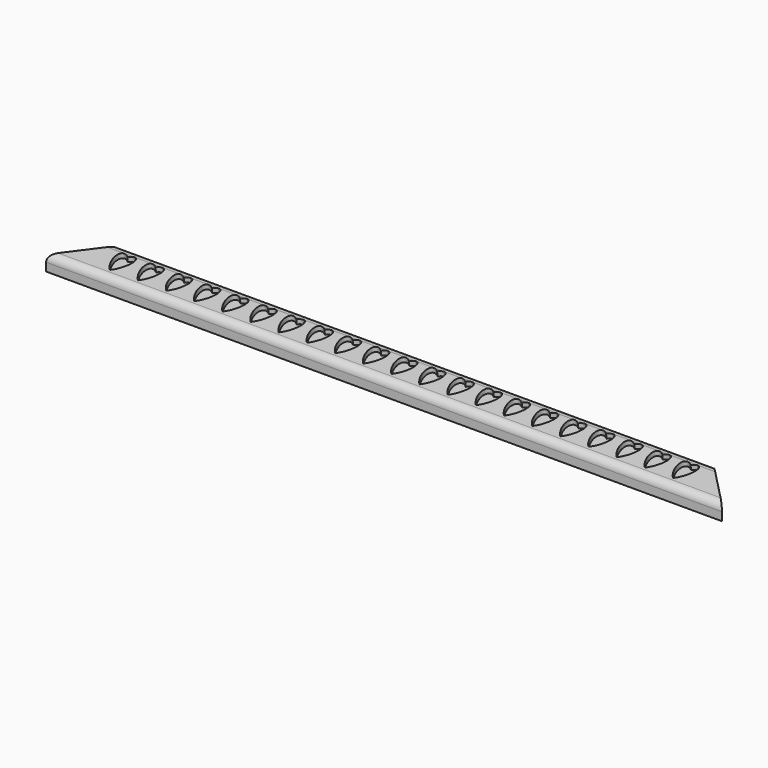
from build123d import *

# Parameters (mm, degrees)
F1_DEPTH = 12.7
F2_SIZE2 = 22.86
F2_SIZE  = 2.54
F3_R     = 5.08
F5_DEPTH = 3.175


with BuildPart() as f1:
    # F0 (on Top) → F1 (new body)
    with BuildSketch(Plane.XY):
        Polygon((203.2, 12.7), (-203.2, 12.7), (-228.6, -12.7), (228.6, -12.7), align=None)
    extrude(amount=F1_DEPTH)

    # F2
    f2_edges = [f1.edges().sort_by_distance(p)[0] for p in [
        (0, -12.7, 12.7),
    ]]
    f2_side = f1.faces().sort_by_distance((0, -12.7, 6.35))[0]
    chamfer(f2_edges, length=F2_SIZE, length2=F2_SIZE2, reference=f2_side)

    # F3
    f3_edges = [f1.edges().sort_by_distance(p)[0] for p in [
        (0, -12.7, 10.16),
    ]]
    fillet(f3_edges, radius=F3_R)

    # F4 (on face) → F5 (cut)
    with BuildSketch(Plane(origin=(0, -1.27, 11.43), x_dir=(1, 0, 0), z_dir=(0, -0.1104315261, 0.9938837347))):
        with BuildLine():
            Line((-186.7822812951, 11.5003391254), (-187.4004064973, 11.5003391254))
            add(Edge.make_bspline(
                [(-187.4004064973, 11.5003391254), (-188.8404220165, 11.3308106334), (-190.5316507007, 9.7902476797)],
                knots=[0.2738569719, 0.2738569719, 0.2738569719, 0.831266508, 0.831266508, 0.831266508], degree=2, weights=[1, 0.9614125767, 1]))
            add(Edge.make_bspline(
                [(-190.5316507007, 9.7902476797), (-196.4870133267, 15.1239986955), (-196.4553626259, 7.6071597103), (-196.4237119252, 0.0903207252), (-190.4683492993, -5.2434302906)],
                knots=[5.4519187991, 5.4519187991, 5.4519187991, 7.0227151259, 7.0227151259, 8.5935114527, 8.5935114527, 8.5935114527], degree=2, weights=[1, 0.7071067812, 1, 0.7071067812, 1]))
            add(Edge.make_bspline(
                [(-190.4683492993, -5.2434302906), (-173.9092680948, 9.8404594812), (-186.7822812951, 11.5003391254)],
                knots=[3.9728591616, 3.9728591616, 3.9728591616, 6.4288026863, 6.4288026863, 6.4288026863], degree=2, weights=[1, 0.3361486296, 1]))
        make_face()
        with BuildLine():
            Line((-167.7322812951, 11.5003391254), (-168.3504064973, 11.5003391254))
            add(Edge.make_bspline(
                [(-168.3504064973, 11.5003391254), (-169.7904220165, 11.3308106334), (-171.4816507007, 9.7902476797)],
                knots=[0.2738569719, 0.2738569719, 0.2738569719, 0.831266508, 0.831266508, 0.831266508], degree=2, weights=[1, 0.9614125767, 1]))
            add(Edge.make_bspline(
                [(-171.4816507007, 9.7902476797), (-177.4370133267, 15.1239986955), (-177.4053626259, 7.6071597103), (-177.3737119252, 0.0903207252), (-171.4183492993, -5.2434302906)],
                knots=[5.4519187991, 5.4519187991, 5.4519187991, 7.0227151259, 7.0227151259, 8.5935114527, 8.5935114527, 8.5935114527], degree=2, weights=[1, 0.7071067812, 1, 0.7071067812, 1]))
            add(Edge.make_bspline(
                [(-171.4183492993, -5.2434302906), (-154.8592680948, 9.8404594812), (-167.7322812951, 11.5003391254)],
                knots=[3.9728591616, 3.9728591616, 3.9728591616, 6.4288026863, 6.4288026863, 6.4288026863], degree=2, weights=[1, 0.3361486296, 1]))
        make_face()
        with BuildLine():
            Line((-148.6822812951, 11.5003391254), (-149.3004064973, 11.5003391254))
            add(Edge.make_bspline(
                [(-149.3004064973, 11.5003391254), (-150.7404220165, 11.3308106334), (-152.4316507007, 9.7902476797)],
                knots=[0.2738569719, 0.2738569719, 0.2738569719, 0.831266508, 0.831266508, 0.831266508], degree=2, weights=[1, 0.9614125767, 1]))
            add(Edge.make_bspline(
                [(-152.4316507007, 9.7902476797), (-158.3870133267, 15.1239986955), (-158.3553626259, 7.6071597103), (-158.3237119252, 0.0903207252), (-152.3683492993, -5.2434302906)],
                knots=[5.4519187991, 5.4519187991, 5.4519187991, 7.0227151259, 7.0227151259, 8.5935114527, 8.5935114527, 8.5935114527], degree=2, weights=[1, 0.7071067812, 1, 0.7071067812, 1]))
            add(Edge.make_bspline(
                [(-152.3683492993, -5.2434302906), (-135.8092680948, 9.8404594812), (-148.6822812951, 11.5003391254)],
                knots=[3.9728591616, 3.9728591616, 3.9728591616, 6.4288026863, 6.4288026863, 6.4288026863], degree=2, weights=[1, 0.3361486296, 1]))
        make_face()
        with BuildLine():
            Line((-129.6322812951, 11.5003391254), (-130.2504064973, 11.5003391254))
            add(Edge.make_bspline(
                [(-130.2504064973, 11.5003391254), (-131.6904220165, 11.3308106334), (-133.3816507007, 9.7902476797)],
                knots=[0.2738569719, 0.2738569719, 0.2738569719, 0.831266508, 0.831266508, 0.831266508], degree=2, weights=[1, 0.9614125767, 1]))
            add(Edge.make_bspline(
                [(-133.3816507007, 9.7902476797), (-139.3370133267, 15.1239986955), (-139.3053626259, 7.6071597103), (-139.2737119252, 0.0903207252), (-133.3183492993, -5.2434302906)],
                knots=[5.4519187991, 5.4519187991, 5.4519187991, 7.0227151259, 7.0227151259, 8.5935114527, 8.5935114527, 8.5935114527], degree=2, weights=[1, 0.7071067812, 1, 0.7071067812, 1]))
            add(Edge.make_bspline(
                [(-133.3183492993, -5.2434302906), (-116.7592680948, 9.8404594812), (-129.6322812951, 11.5003391254)],
                knots=[3.9728591616, 3.9728591616, 3.9728591616, 6.4288026863, 6.4288026863, 6.4288026863], degree=2, weights=[1, 0.3361486296, 1]))
        make_face()
        with BuildLine():
            add(Edge.make_bspline(
                [(-114.2683492993, -5.2434302906), (-97.7092680948, 9.8404594812), (-110.5822812951, 11.5003391254)],
                knots=[3.9728591616, 3.9728591616, 3.9728591616, 6.4288026863, 6.4288026863, 6.4288026863], degree=2, weights=[1, 0.3361486296, 1]))
            Line((-110.5822812951, 11.5003391254), (-111.2004064973, 11.5003391254))
            add(Edge.make_bspline(
                [(-111.2004064973, 11.5003391254), (-112.6404220165, 11.3308106334), (-114.3316507007, 9.7902476797)],
                knots=[0.2738569719, 0.2738569719, 0.2738569719, 0.831266508, 0.831266508, 0.831266508], degree=2, weights=[1, 0.9614125767, 1]))
            add(Edge.make_bspline(
                [(-114.3316507007, 9.7902476797), (-120.2870133267, 15.1239986955), (-120.2553626259, 7.6071597103), (-120.2237119252, 0.0903207252), (-114.2683492993, -5.2434302906)],
                knots=[5.4519187991, 5.4519187991, 5.4519187991, 7.0227151259, 7.0227151259, 8.5935114527, 8.5935114527, 8.5935114527], degree=2, weights=[1, 0.7071067812, 1, 0.7071067812, 1]))
        make_face()
        with BuildLine():
            add(Edge.make_bspline(
                [(-95.2183492993, -5.2434302906), (-78.6592680948, 9.8404594812), (-91.5322812951, 11.5003391254)],
                knots=[3.9728591616, 3.9728591616, 3.9728591616, 6.4288026863, 6.4288026863, 6.4288026863], degree=2, weights=[1, 0.3361486296, 1]))
            Line((-91.5322812951, 11.5003391254), (-92.1504064973, 11.5003391254))
            add(Edge.make_bspline(
                [(-92.1504064973, 11.5003391254), (-93.5904220165, 11.3308106334), (-95.2816507007, 9.7902476797)],
                knots=[0.2738569719, 0.2738569719, 0.2738569719, 0.831266508, 0.831266508, 0.831266508], degree=2, weights=[1, 0.9614125767, 1]))
            add(Edge.make_bspline(
                [(-95.2816507007, 9.7902476797), (-101.2370133267, 15.1239986955), (-101.2053626259, 7.6071597103), (-101.1737119252, 0.0903207252), (-95.2183492993, -5.2434302906)],
                knots=[5.4519187991, 5.4519187991, 5.4519187991, 7.0227151259, 7.0227151259, 8.5935114527, 8.5935114527, 8.5935114527], degree=2, weights=[1, 0.7071067812, 1, 0.7071067812, 1]))
        make_face()
        with BuildLine():
            add(Edge.make_bspline(
                [(-76.1683492993, -5.2434302906), (-59.6092680948, 9.8404594812), (-72.4822812951, 11.5003391254)],
                knots=[3.9728591616, 3.9728591616, 3.9728591616, 6.4288026863, 6.4288026863, 6.4288026863], degree=2, weights=[1, 0.3361486296, 1]))
            Line((-72.4822812951, 11.5003391254), (-73.1004064973, 11.5003391254))
            add(Edge.make_bspline(
                [(-73.1004064973, 11.5003391254), (-74.5404220165, 11.3308106334), (-76.2316507007, 9.7902476797)],
                knots=[0.2738569719, 0.2738569719, 0.2738569719, 0.831266508, 0.831266508, 0.831266508], degree=2, weights=[1, 0.9614125767, 1]))
            add(Edge.make_bspline(
                [(-76.2316507007, 9.7902476797), (-82.1870133267, 15.1239986955), (-82.1553626259, 7.6071597103), (-82.1237119252, 0.0903207252), (-76.1683492993, -5.2434302906)],
                knots=[5.4519187991, 5.4519187991, 5.4519187991, 7.0227151259, 7.0227151259, 8.5935114527, 8.5935114527, 8.5935114527], degree=2, weights=[1, 0.7071067812, 1, 0.7071067812, 1]))
        make_face()
        with BuildLine():
            add(Edge.make_bspline(
                [(-57.1183492993, -5.2434302906), (-40.5592680948, 9.8404594812), (-53.4322812951, 11.5003391254)],
                knots=[3.9728591616, 3.9728591616, 3.9728591616, 6.4288026863, 6.4288026863, 6.4288026863], degree=2, weights=[1, 0.3361486296, 1]))
            Line((-53.4322812951, 11.5003391254), (-54.0504064973, 11.5003391254))
            add(Edge.make_bspline(
                [(-54.0504064973, 11.5003391254), (-55.4904220165, 11.3308106334), (-57.1816507007, 9.7902476797)],
                knots=[0.2738569719, 0.2738569719, 0.2738569719, 0.831266508, 0.831266508, 0.831266508], degree=2, weights=[1, 0.9614125767, 1]))
            add(Edge.make_bspline(
                [(-57.1816507007, 9.7902476797), (-63.1370133267, 15.1239986955), (-63.1053626259, 7.6071597103), (-63.0737119252, 0.0903207252), (-57.1183492993, -5.2434302906)],
                knots=[5.4519187991, 5.4519187991, 5.4519187991, 7.0227151259, 7.0227151259, 8.5935114527, 8.5935114527, 8.5935114527], degree=2, weights=[1, 0.7071067812, 1, 0.7071067812, 1]))
        make_face()
        with BuildLine():
            add(Edge.make_bspline(
                [(-38.0683492993, -5.2434302906), (-21.5092680948, 9.8404594812), (-34.3822812951, 11.5003391254)],
                knots=[3.9728591616, 3.9728591616, 3.9728591616, 6.4288026863, 6.4288026863, 6.4288026863], degree=2, weights=[1, 0.3361486296, 1]))
            Line((-34.3822812951, 11.5003391254), (-35.0004064973, 11.5003391254))
            add(Edge.make_bspline(
                [(-35.0004064973, 11.5003391254), (-36.4404220165, 11.3308106334), (-38.1316507007, 9.7902476797)],
                knots=[0.2738569719, 0.2738569719, 0.2738569719, 0.831266508, 0.831266508, 0.831266508], degree=2, weights=[1, 0.9614125767, 1]))
            add(Edge.make_bspline(
                [(-38.1316507007, 9.7902476797), (-44.0870133267, 15.1239986955), (-44.0553626259, 7.6071597103), (-44.0237119252, 0.0903207252), (-38.0683492993, -5.2434302906)],
                knots=[5.4519187991, 5.4519187991, 5.4519187991, 7.0227151259, 7.0227151259, 8.5935114527, 8.5935114527, 8.5935114527], degree=2, weights=[1, 0.7071067812, 1, 0.7071067812, 1]))
        make_face()
        with BuildLine():
            Line((22.7677187049, 11.5003391254), (22.1495935027, 11.5003391254))
            add(Edge.make_bspline(
                [(22.1495935027, 11.5003391254), (20.7095779835, 11.3308106334), (19.0183492993, 9.7902476797)],
                knots=[0.2738569719, 0.2738569719, 0.2738569719, 0.831266508, 0.831266508, 0.831266508], degree=2, weights=[1, 0.9614125767, 1]))
            add(Edge.make_bspline(
                [(19.0183492993, 9.7902476797), (13.0629866733, 15.1239986955), (13.0946373741, 7.6071597103), (13.1262880748, 0.0903207252), (19.0816507007, -5.2434302906)],
                knots=[5.4519187991, 5.4519187991, 5.4519187991, 7.0227151259, 7.0227151259, 8.5935114527, 8.5935114527, 8.5935114527], degree=2, weights=[1, 0.7071067812, 1, 0.7071067812, 1]))
            add(Edge.make_bspline(
                [(19.0816507007, -5.2434302906), (35.6407319052, 9.8404594812), (22.7677187049, 11.5003391254)],
                knots=[3.9728591616, 3.9728591616, 3.9728591616, 6.4288026863, 6.4288026863, 6.4288026863], degree=2, weights=[1, 0.3361486296, 1]))
        make_face()
        with BuildLine():
            Line((41.8177187049, 11.5003391254), (41.1995935027, 11.5003391254))
            add(Edge.make_bspline(
                [(41.1995935027, 11.5003391254), (39.7595779835, 11.3308106334), (38.0683492993, 9.7902476797)],
                knots=[0.2738569719, 0.2738569719, 0.2738569719, 0.831266508, 0.831266508, 0.831266508], degree=2, weights=[1, 0.9614125767, 1]))
            add(Edge.make_bspline(
                [(38.0683492993, 9.7902476797), (32.1129866733, 15.1239986955), (32.1446373741, 7.6071597103), (32.1762880748, 0.0903207252), (38.1316507007, -5.2434302906)],
                knots=[5.4519187991, 5.4519187991, 5.4519187991, 7.0227151259, 7.0227151259, 8.5935114527, 8.5935114527, 8.5935114527], degree=2, weights=[1, 0.7071067812, 1, 0.7071067812, 1]))
            add(Edge.make_bspline(
                [(38.1316507007, -5.2434302906), (54.6907319052, 9.8404594812), (41.8177187049, 11.5003391254)],
                knots=[3.9728591616, 3.9728591616, 3.9728591616, 6.4288026863, 6.4288026863, 6.4288026863], degree=2, weights=[1, 0.3361486296, 1]))
        make_face()
        with BuildLine():
            Line((60.8677187049, 11.5003391254), (60.2495935027, 11.5003391254))
            add(Edge.make_bspline(
                [(60.2495935027, 11.5003391254), (58.8095779835, 11.3308106334), (57.1183492993, 9.7902476797)],
                knots=[0.2738569719, 0.2738569719, 0.2738569719, 0.831266508, 0.831266508, 0.831266508], degree=2, weights=[1, 0.9614125767, 1]))
            add(Edge.make_bspline(
                [(57.1183492993, 9.7902476797), (51.1629866733, 15.1239986955), (51.1946373741, 7.6071597103), (51.2262880748, 0.0903207252), (57.1816507007, -5.2434302906)],
                knots=[5.4519187991, 5.4519187991, 5.4519187991, 7.0227151259, 7.0227151259, 8.5935114527, 8.5935114527, 8.5935114527], degree=2, weights=[1, 0.7071067812, 1, 0.7071067812, 1]))
            add(Edge.make_bspline(
                [(57.1816507007, -5.2434302906), (73.7407319052, 9.8404594812), (60.8677187049, 11.5003391254)],
                knots=[3.9728591616, 3.9728591616, 3.9728591616, 6.4288026863, 6.4288026863, 6.4288026863], degree=2, weights=[1, 0.3361486296, 1]))
        make_face()
        with BuildLine():
            Line((79.9177187049, 11.5003391254), (79.2995935027, 11.5003391254))
            add(Edge.make_bspline(
                [(79.2995935027, 11.5003391254), (77.8595779835, 11.3308106334), (76.1683492993, 9.7902476797)],
                knots=[0.2738569719, 0.2738569719, 0.2738569719, 0.831266508, 0.831266508, 0.831266508], degree=2, weights=[1, 0.9614125767, 1]))
            add(Edge.make_bspline(
                [(76.1683492993, 9.7902476797), (70.2129866733, 15.1239986955), (70.2446373741, 7.6071597103), (70.2762880748, 0.0903207252), (76.2316507007, -5.2434302906)],
                knots=[5.4519187991, 5.4519187991, 5.4519187991, 7.0227151259, 7.0227151259, 8.5935114527, 8.5935114527, 8.5935114527], degree=2, weights=[1, 0.7071067812, 1, 0.7071067812, 1]))
            add(Edge.make_bspline(
                [(76.2316507007, -5.2434302906), (92.7907319052, 9.8404594812), (79.9177187049, 11.5003391254)],
                knots=[3.9728591616, 3.9728591616, 3.9728591616, 6.4288026863, 6.4288026863, 6.4288026863], degree=2, weights=[1, 0.3361486296, 1]))
        make_face()
        with BuildLine():
            Line((98.9677187049, 11.5003391254), (98.3495935027, 11.5003391254))
            add(Edge.make_bspline(
                [(98.3495935027, 11.5003391254), (96.9095779835, 11.3308106334), (95.2183492993, 9.7902476797)],
                knots=[0.2738569719, 0.2738569719, 0.2738569719, 0.831266508, 0.831266508, 0.831266508], degree=2, weights=[1, 0.9614125767, 1]))
            add(Edge.make_bspline(
                [(95.2183492993, 9.7902476797), (89.2629866733, 15.1239986955), (89.2946373741, 7.6071597103), (89.3262880748, 0.0903207252), (95.2816507007, -5.2434302906)],
                knots=[5.4519187991, 5.4519187991, 5.4519187991, 7.0227151259, 7.0227151259, 8.5935114527, 8.5935114527, 8.5935114527], degree=2, weights=[1, 0.7071067812, 1, 0.7071067812, 1]))
            add(Edge.make_bspline(
                [(95.2816507007, -5.2434302906), (111.8407319052, 9.8404594812), (98.9677187049, 11.5003391254)],
                knots=[3.9728591616, 3.9728591616, 3.9728591616, 6.4288026863, 6.4288026863, 6.4288026863], degree=2, weights=[1, 0.3361486296, 1]))
        make_face()
        with BuildLine():
            add(Edge.make_bspline(
                [(114.3316507007, -5.2434302906), (130.8907319052, 9.8404594812), (118.0177187049, 11.5003391254)],
                knots=[3.9728591616, 3.9728591616, 3.9728591616, 6.4288026863, 6.4288026863, 6.4288026863], degree=2, weights=[1, 0.3361486296, 1]))
            Line((118.0177187049, 11.5003391254), (117.3995935027, 11.5003391254))
            add(Edge.make_bspline(
                [(117.3995935027, 11.5003391254), (115.9595779835, 11.3308106334), (114.2683492993, 9.7902476797)],
                knots=[0.2738569719, 0.2738569719, 0.2738569719, 0.831266508, 0.831266508, 0.831266508], degree=2, weights=[1, 0.9614125767, 1]))
            add(Edge.make_bspline(
                [(114.2683492993, 9.7902476797), (108.3129866733, 15.1239986955), (108.3446373741, 7.6071597103), (108.3762880748, 0.0903207252), (114.3316507007, -5.2434302906)],
                knots=[5.4519187991, 5.4519187991, 5.4519187991, 7.0227151259, 7.0227151259, 8.5935114527, 8.5935114527, 8.5935114527], degree=2, weights=[1, 0.7071067812, 1, 0.7071067812, 1]))
        make_face()
        with BuildLine():
            add(Edge.make_bspline(
                [(133.3816507007, -5.2434302906), (149.9407319052, 9.8404594812), (137.0677187049, 11.5003391254)],
                knots=[3.9728591616, 3.9728591616, 3.9728591616, 6.4288026863, 6.4288026863, 6.4288026863], degree=2, weights=[1, 0.3361486296, 1]))
            Line((137.0677187049, 11.5003391254), (136.4495935027, 11.5003391254))
            add(Edge.make_bspline(
                [(136.4495935027, 11.5003391254), (135.0095779835, 11.3308106334), (133.3183492993, 9.7902476797)],
                knots=[0.2738569719, 0.2738569719, 0.2738569719, 0.831266508, 0.831266508, 0.831266508], degree=2, weights=[1, 0.9614125767, 1]))
            add(Edge.make_bspline(
                [(133.3183492993, 9.7902476797), (127.3629866733, 15.1239986955), (127.3946373741, 7.6071597103), (127.4262880748, 0.0903207252), (133.3816507007, -5.2434302906)],
                knots=[5.4519187991, 5.4519187991, 5.4519187991, 7.0227151259, 7.0227151259, 8.5935114527, 8.5935114527, 8.5935114527], degree=2, weights=[1, 0.7071067812, 1, 0.7071067812, 1]))
        make_face()
        with BuildLine():
            add(Edge.make_bspline(
                [(152.4316507007, -5.2434302906), (168.9907319052, 9.8404594812), (156.1177187049, 11.5003391254)],
                knots=[3.9728591616, 3.9728591616, 3.9728591616, 6.4288026863, 6.4288026863, 6.4288026863], degree=2, weights=[1, 0.3361486296, 1]))
            Line((156.1177187049, 11.5003391254), (155.4995935027, 11.5003391254))
            add(Edge.make_bspline(
                [(155.4995935027, 11.5003391254), (154.0595779835, 11.3308106334), (152.3683492993, 9.7902476797)],
                knots=[0.2738569719, 0.2738569719, 0.2738569719, 0.831266508, 0.831266508, 0.831266508], degree=2, weights=[1, 0.9614125767, 1]))
            add(Edge.make_bspline(
                [(152.3683492993, 9.7902476797), (146.4129866733, 15.1239986955), (146.4446373741, 7.6071597103), (146.4762880748, 0.0903207252), (152.4316507007, -5.2434302906)],
                knots=[5.4519187991, 5.4519187991, 5.4519187991, 7.0227151259, 7.0227151259, 8.5935114527, 8.5935114527, 8.5935114527], degree=2, weights=[1, 0.7071067812, 1, 0.7071067812, 1]))
        make_face()
        with BuildLine():
            add(Edge.make_bspline(
                [(171.4816507007, -5.2434302906), (188.0407319052, 9.8404594812), (175.1677187049, 11.5003391254)],
                knots=[3.9728591616, 3.9728591616, 3.9728591616, 6.4288026863, 6.4288026863, 6.4288026863], degree=2, weights=[1, 0.3361486296, 1]))
            Line((175.1677187049, 11.5003391254), (174.5495935027, 11.5003391254))
            add(Edge.make_bspline(
                [(174.5495935027, 11.5003391254), (173.1095779835, 11.3308106334), (171.4183492993, 9.7902476797)],
                knots=[0.2738569719, 0.2738569719, 0.2738569719, 0.831266508, 0.831266508, 0.831266508], degree=2, weights=[1, 0.9614125767, 1]))
            add(Edge.make_bspline(
                [(171.4183492993, 9.7902476797), (165.4629866733, 15.1239986955), (165.4946373741, 7.6071597103), (165.5262880748, 0.0903207252), (171.4816507007, -5.2434302906)],
                knots=[5.4519187991, 5.4519187991, 5.4519187991, 7.0227151259, 7.0227151259, 8.5935114527, 8.5935114527, 8.5935114527], degree=2, weights=[1, 0.7071067812, 1, 0.7071067812, 1]))
        make_face()
        with BuildLine():
            add(Edge.make_bspline(
                [(-19.0183492993, -5.2434302906), (-2.4592680948, 9.8404594812), (-15.3322812951, 11.5003391254)],
                knots=[3.9728591616, 3.9728591616, 3.9728591616, 6.4288026863, 6.4288026863, 6.4288026863], degree=2, weights=[1, 0.3361486296, 1]))
            Line((-15.3322812951, 11.5003391254), (-15.9504064973, 11.5003391254))
            add(Edge.make_bspline(
                [(-15.9504064973, 11.5003391254), (-17.3904220165, 11.3308106334), (-19.0816507007, 9.7902476797)],
                knots=[0.2738569719, 0.2738569719, 0.2738569719, 0.831266508, 0.831266508, 0.831266508], degree=2, weights=[1, 0.9614125767, 1]))
            add(Edge.make_bspline(
                [(-19.0816507007, 9.7902476797), (-25.0370133267, 15.1239986955), (-25.0053626259, 7.6071597103), (-24.9737119252, 0.0903207252), (-19.0183492993, -5.2434302906)],
                knots=[5.4519187991, 5.4519187991, 5.4519187991, 7.0227151259, 7.0227151259, 8.5935114527, 8.5935114527, 8.5935114527], degree=2, weights=[1, 0.7071067812, 1, 0.7071067812, 1]))
        make_face()
        with BuildLine():
            Line((3.7177187049, 11.5003391254), (3.0995935027, 11.5003391254))
            add(Edge.make_bspline(
                [(3.0995935027, 11.5003391254), (1.6595779835, 11.3308106334), (-0.0316507007, 9.7902476797)],
                knots=[0.2738569719, 0.2738569719, 0.2738569719, 0.831266508, 0.831266508, 0.831266508], degree=2, weights=[1, 0.9614125767, 1]))
            add(Edge.make_bspline(
                [(-0.0316507007, 9.7902476797), (-5.9870133267, 15.1239986955), (-5.9553626259, 7.6071597103), (-5.9237119252, 0.0903207252), (0.0316507007, -5.2434302906)],
                knots=[5.4519187991, 5.4519187991, 5.4519187991, 7.0227151259, 7.0227151259, 8.5935114527, 8.5935114527, 8.5935114527], degree=2, weights=[1, 0.7071067812, 1, 0.7071067812, 1]))
            add(Edge.make_bspline(
                [(0.0316507007, -5.2434302906), (16.5907319052, 9.8404594812), (3.7177187049, 11.5003391254)],
                knots=[3.9728591616, 3.9728591616, 3.9728591616, 6.4288026863, 6.4288026863, 6.4288026863], degree=2, weights=[1, 0.3361486296, 1]))
        make_face()
        with BuildLine():
            add(Edge.make_bspline(
                [(190.5316507007, -5.2434302906), (207.0907319052, 9.8404594812), (194.2177187049, 11.5003391254)],
                knots=[3.9728591616, 3.9728591616, 3.9728591616, 6.4288026863, 6.4288026863, 6.4288026863], degree=2, weights=[1, 0.3361486296, 1]))
            Line((194.2177187049, 11.5003391254), (193.5995935027, 11.5003391254))
            add(Edge.make_bspline(
                [(193.5995935027, 11.5003391254), (192.1595779835, 11.3308106334), (190.4683492993, 9.7902476797)],
                knots=[0.2738569719, 0.2738569719, 0.2738569719, 0.831266508, 0.831266508, 0.831266508], degree=2, weights=[1, 0.9614125767, 1]))
            add(Edge.make_bspline(
                [(190.4683492993, 9.7902476797), (184.5129866733, 15.1239986955), (184.5446373741, 7.6071597103), (184.5762880748, 0.0903207252), (190.5316507007, -5.2434302906)],
                knots=[5.4519187991, 5.4519187991, 5.4519187991, 7.0227151259, 7.0227151259, 8.5935114527, 8.5935114527, 8.5935114527], degree=2, weights=[1, 0.7071067812, 1, 0.7071067812, 1]))
        make_face()
    extrude(amount=-F5_DEPTH, mode=Mode.SUBTRACT)


solid = f1.part
